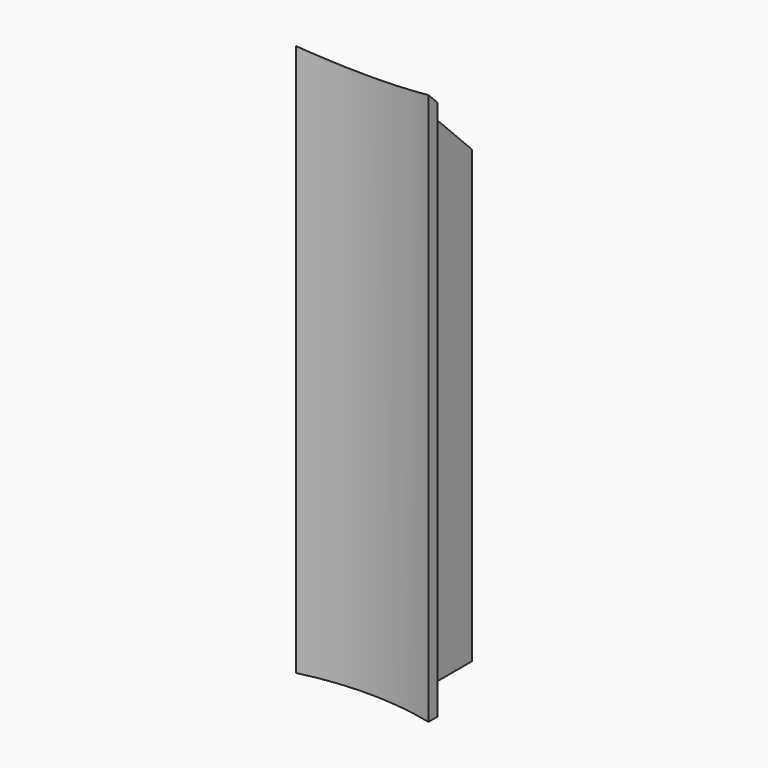
from build123d import *

# Parameters (mm, degrees)
PAD002_DEPTH            = 50
FILLET001_R             = 4
POCKET001_DEPTH         = 8.601
POCKET001_DEPTH_BACK    = 3.401
BODY003_PLACEMENT_ANGLE = 90


with BuildPart() as part:
    # Sketch004 → Pad002 (new body)
    with BuildSketch(Plane.XY):
        with BuildLine():
            ThreePointArc((24.269322199, -6), (25, 0), (24.269322199, 6))
            Line((24.269322199, 6), (25.2982212813, 6))
            ThreePointArc((25.8696733648, 2.6), (25.6403658443, 4.3094824946), (25.2982212813, 6))
            Line((25.8696733648, 2.6), (33.4516540126, 2.6))
            Line((33.4516540126, 2.6), (33.4516540126, 1.6))
            Line((33.4516540126, 1.6), (26.4516540126, 1.6))
            Line((26.4516540126, 1.6), (26.4516540126, -1.6))
            Line((26.4516540126, -1.6), (33.4516540126, -1.6))
            Line((33.4516540126, -1.6), (33.4516540126, -2.6))
            Line((33.4516540126, -2.6), (25.8696733648, -2.6))
            ThreePointArc((25.2982212813, -6), (25.6403658443, -4.3094824946), (25.8696733648, -2.6))
            Line((24.269322199, -6), (25.2982212813, -6))
        make_face()
    extrude(amount=PAD002_DEPTH)

    # Fillet001
    fillet001_edges = [part.edges().sort_by_distance(p)[0] for p in [
        (25.869673, -2.6, 25),
        (25.869673, 2.6, 25),
    ]]
    fillet(fillet001_edges, radius=FILLET001_R)

    # Sketch005 (on Face15 of Fillet001) → Pocket001 (cut, two sides)
    with BuildSketch(Plane.XZ.offset(2.6)) as pocket001_sk:
        Polygon((33.4516540126, 50), (33.4516540126, 40.8176681865), (24.269322199, 50), align=None)
    extrude(amount=-POCKET001_DEPTH, mode=Mode.SUBTRACT)
    extrude(pocket001_sk.sketch, amount=POCKET001_DEPTH_BACK, mode=Mode.SUBTRACT)


with BuildPart() as part_1:
    # Body003 placement: moved
    add(part.part.rotate(Axis((0, 0, 0), (0, 0, 1)), BODY003_PLACEMENT_ANGLE))


solid = part_1.part
